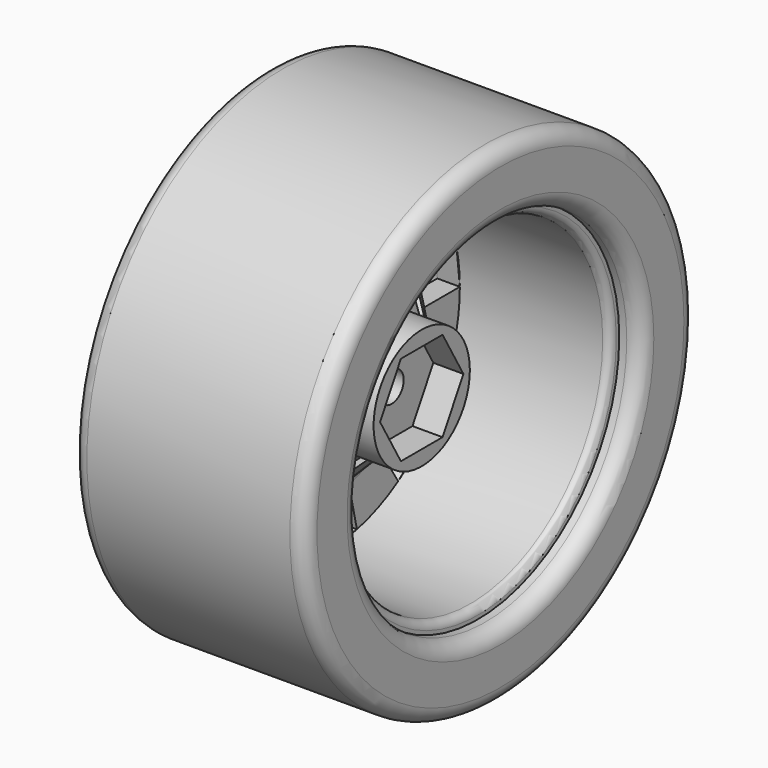
from build123d import *

# Parameters (mm, degrees)
POCKET_DEPTH    = 11
FILLET_R        = 1
POCKET001_DEPTH = 4
SKETCH003_R     = 2
POCKET002_DEPTH = 5
SKETCH004_W     = 31
SKETCH004_H     = 9
FILLET001_R     = 2


with BuildPart() as part:
    # Sketch → Revolution (revolve)
    with BuildSketch(Plane.XY):
        with BuildLine():
            Line((25, 25), (0, 25))
            Line((0, 22), (0, 25))
            Line((2, 22), (0, 22))
            Line((2, 22), (2, 17.53895))
            ThreePointArc((2, 17.53895), (2.171207, 16.72931), (2.655516, 16.058287))
            Line((2.655516, 16.058287), (11.53, 8))
            Line((11.53, 0), (11.53, 8))
            Line((11.53, 0), (17.53, 0))
            Line((17.53, 8), (17.53, 0))
            Line((17.53, 8), (12.565837, 8))
            Line((5.348214, 15.217623), (12.565837, 8))
            ThreePointArc((5, 16.058287), (5.090498, 15.603323), (5.348214, 15.217623))
            Line((5, 22), (5, 16.058287))
            Line((5, 22), (25, 22))
            Line((25, 22), (25, 25))
        make_face()
    revolve(axis=Axis((0, 0, 0), (1, 0, 0)))

    # Sketch001 (on Face6 of Revolution) → Pocket (cut)
    with BuildSketch(Plane(origin=(2, 0, 0), x_dir=(0, -1, 0), z_dir=(-1, 0, 0))):
        Polygon((5.823759, -5.484873), (6.897003, -4.05356), (18.966758, -11.147291), (16.015336, -15.083402), align=None)
        Polygon((7.799968, -1.777779), (8, 0), (22, 0), (21.449912, -4.888892), align=None)
        Polygon((7.723362, 2.085587), (7.066783, 3.749743), (19.433654, 10.311793), (21.239246, 5.735365), align=None)
        Polygon((5.617695, 5.695745), (4.211508, 6.801706), (11.581647, 18.704691), (15.44866, 15.663298), align=None)
        Polygon((1.777779, 7.799968), (0, 8), (0, 22), (4.888892, 21.449912), align=None)
        Polygon((-2.563948, 7.578006), (-4.183841, 6.818759), (-11.505564, 18.751587), (-7.050857, 20.839516), align=None)
        Polygon((-5.950324, 5.347302), (-6.989833, 3.891303), (-19.22204, 10.701084), (-16.363392, 14.705081), align=None)
        Polygon((-7.799968, 1.777779), (-8, 0), (-22, 0), (-21.449912, 4.888892), align=None)
        Polygon((-7.77833, -1.870183), (-7.168244, -3.55194), (-19.712671, -9.767836), (-21.390407, -5.143005), align=None)
        Polygon((-5.667888, -5.645799), (-4.271545, -6.764163), (-11.746749, -18.601449), (-15.586691, -15.525948), align=None)
        Polygon((-1.777779, -7.799968), (0, -8), (0, -22), (-4.888892, -21.449912), align=None)
        Polygon((2.268302, -7.671689), (3.916406, -6.975798), (10.770116, -19.183446), (6.23783, -21.097144), align=None)
    extrude(amount=-POCKET_DEPTH, mode=Mode.SUBTRACT)

    # Fillet
    fillet_edges = [part.edges().sort_by_distance(p)[0] for p in [
        (0, -25, 0),
        (0, -22, 0),
        (25, -25, 0),
        (25, -22, 0),
    ]]
    fillet(fillet_edges, radius=FILLET_R)

    # Sketch002 (on Face167 of Fillet) → Pocket001 (cut)
    with BuildSketch(Plane.YZ.offset(17.53)):
        Polygon((3.464102, -6), (6.928203, 0), (3.464102, 6), (-3.464102, 6), (-6.928203, 0), (-3.464102, -6), align=None)
    extrude(amount=-POCKET001_DEPTH, mode=Mode.SUBTRACT)

    # Sketch003 (on Face175 of Pocket001) → Pocket002 (cut)
    with BuildSketch(Plane.YZ.offset(13.53)):
        Circle(SKETCH003_R)
    extrude(amount=-POCKET002_DEPTH, mode=Mode.SUBTRACT)

    # Sketch004 → Revolution001 (revolve)
    with BuildSketch(Plane.XY):
        with Locations((12.5, 28)):
            Rectangle(SKETCH004_W, SKETCH004_H)
    revolve(axis=Axis((0, 0, 0), (1, 0, 0)))

    # Fillet001
    fillet001_edges = [part.edges().sort_by_distance(p)[0] for p in [
        (-3, -32.5, 0),
        (-3, -23.5, 0),
        (28, -32.5, 0),
        (28, -23.5, 0),
    ]]
    fillet(fillet001_edges, radius=FILLET001_R)


solid = part.part
